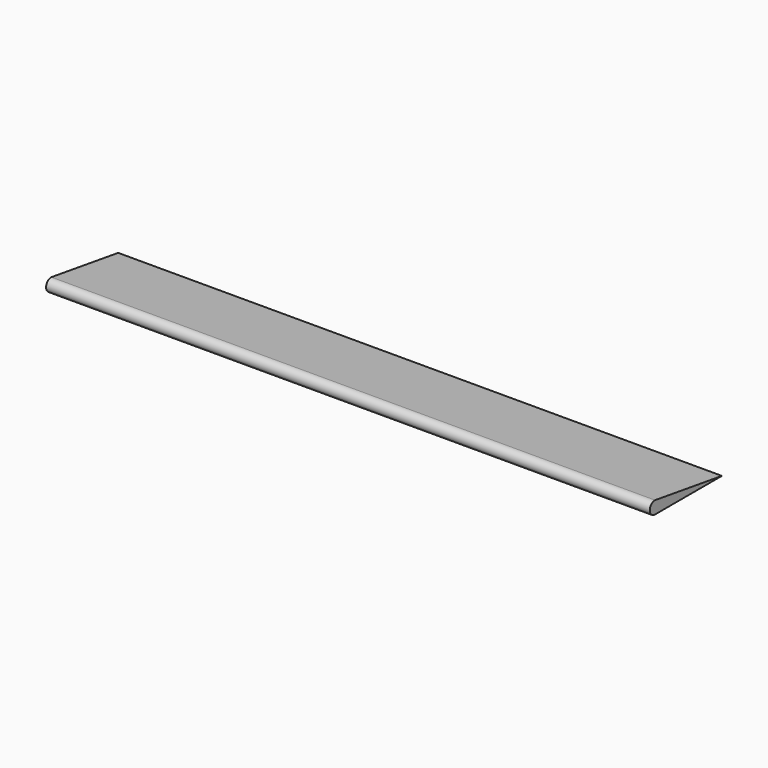
from build123d import *

# Parameters (mm, degrees)
F1_DEPTH = 457.2


with BuildPart() as f1:
    # F0 (on Right) → F1 (new body, symmetric)
    with BuildSketch(Plane.YZ):
        with BuildLine():
            ThreePointArc((-53.715409, 19.058369), (-63.646055, 9.733097), (-54.114779, 0))
            Line((-54.114779, 0), (72.885221, 0))
            Line((72.885221, 0), (-53.715409, 19.058369))
        make_face()
    extrude(amount=F1_DEPTH, both=True)


solid = f1.part
